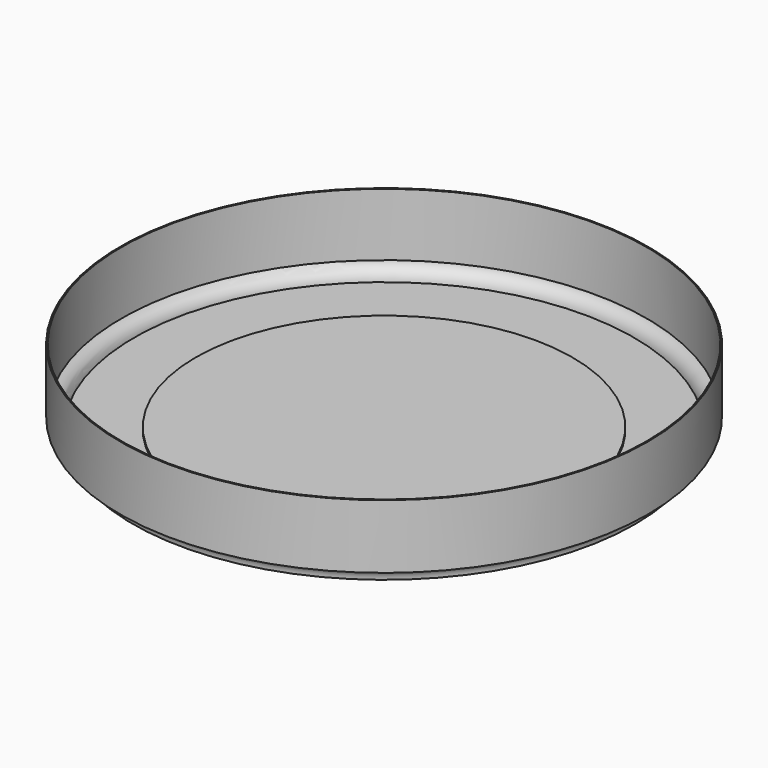
from build123d import *


with BuildPart() as f1:
    # F0 (on Front) → F1 (revolve)
    with BuildSketch(Plane.XZ):
        with BuildLine():
            Line((37.1475, 0.508), (37.1475, 0))
            Line((37.1475, 0), (49.8475, 0))
            ThreePointArc((49.8475, 0), (50.591449, 1.796051), (52.3875, 2.54))
            Line((52.3875, 2.54), (52.3875, 15.24))
            Line((52.3875, 15.24), (52.1335, 15.24))
            Line((52.1335, 15.24), (52.1335, 2.782431))
            ThreePointArc((52.1335, 2.782431), (50.411844, 1.975656), (49.605069, 0.254))
            Line((49.605069, 0.254), (37.4015, 0.254))
            Line((37.4015, 0.254), (37.4015, 0.762))
            Line((37.4015, 0.762), (0, 0.762))
            Line((0, 0.762), (0, 0.508))
            Line((0, 0.508), (37.1475, 0.508))
        make_face()
    revolve(axis=Axis((0, 0, 48.109709), (0, 0, 1)))


solid = f1.part
